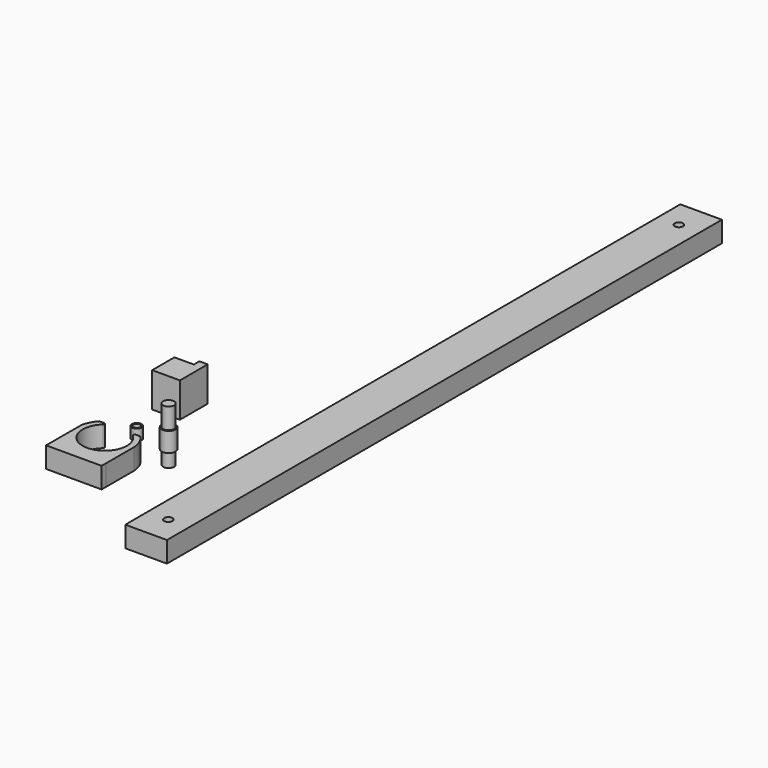
from build123d import *

# Parameters (mm, degrees)
F0_R      = 3.5
F0_R_2    = 2.5
F1_DEPTH  = 8
F0_R_3    = 4
F2_DEPTH  = 10
F0_R_4    = 5
F3_DEPTH  = 14
F4_R      = 4
F5_DEPTH  = 15
F0_W      = 30
F0_H      = 500
F6_DEPTH  = 15
F7_D      = 6
F8_DEPTH  = 25
F10_D     = 5
F10_DEPTH = 15
F10_TIP   = 1.5021515476
F11_DEPTH = 15


with BuildPart() as f1:
    # F0 (on Top) → F1 (new body)
    with BuildSketch(Plane.XY):
        with Locations((-30.9318657964, 11.9939884171)):
            Circle(F0_R)
        with Locations((-30.9318657964, 11.9939884171)):
            Circle(F0_R_2, mode=Mode.SUBTRACT)
    extrude(amount=F1_DEPTH)


with BuildPart() as f2:
    # F0 (on Top) → F2 (new body)
    with BuildSketch(Plane.XY):
        with Locations((-8.900186047, 13.1039824337)):
            Circle(F0_R_3)
    extrude(amount=-F2_DEPTH)

    # F0 (on Top) → F3 (join)
    with BuildSketch(Plane.XY):
        with Locations((-8.900186047, 13.1039824337)):
            Circle(F0_R_4)
        with Locations((-8.900186047, 13.1039824337)):
            Circle(F0_R_3, mode=Mode.SUBTRACT)
        with Locations((-8.900186047, 13.1039824337)):
            Circle(F0_R_3)
    extrude(amount=F3_DEPTH)

    # F4 (on face) → F5 (join)
    with BuildSketch(Plane.XY.offset(14)):
        with Locations((-8.900186047, 13.1039824337)):
            Circle(F4_R)
    extrude(amount=F5_DEPTH)


with BuildPart() as f6:
    # F0 (on Top) → F6 (new body)
    with BuildSketch(Plane.XY):
        with Locations((62.6677641273, 153.3853390813)):
            Rectangle(F0_W, F0_H)
    extrude(amount=F6_DEPTH)

    # F7 (through all)
    with Locations(Plane(origin=(0, 0, 0), x_dir=(1, 0, 0), z_dir=(0, 0, -1))):
        with Locations((62.6677641273, -383.3853390813), (62.6677641273, 76.6146609187)):
            Hole(F7_D / 2)


with BuildPart() as f8:
    # F0 (on Top) → F8 (new body)
    with BuildSketch(Plane.XY):
        Polygon((-46.1693040282, 64.8944717646), (-46.1693040282, 44.8944717646), (-26.1693040282, 44.8944717646), (-26.1693040282, 69.8944717646), (-32.1693040282, 69.8944717646), (-32.1693040282, 64.8944717646), align=None)
    extrude(amount=F8_DEPTH)

    # F10
    with Locations(Plane(origin=(-46.1693040282, 0, 0), x_dir=(0, -1, 0), z_dir=(-1, 0, 0))):
        with Locations((-54.8944717646, 12.5)):
            Hole(F10_D / 2, depth=F10_DEPTH)
            with Locations((0, 0, -(F10_DEPTH + F10_TIP / 2))):  # 118° drill point
                Cone(0, F10_D / 2, F10_TIP, mode=Mode.SUBTRACT)


with BuildPart() as f11:
    # F0 (on Top) → F11 (new body)
    with BuildSketch(Plane.XY):
        with BuildLine():
            ThreePointArc((-16.9560693478, -9.0613515281), (-27.6460252004, -36.9661759228), (-38.335981053, -9.0613515281))
            ThreePointArc((-38.335981053, -9.0613515281), (-38.0702800973, -7.9595651328), (-39.0041032938, -7.3173000034))
            Line((-39.0041032938, -7.3173000034), (-42.5224557581, -7.3173000034))
            ThreePointArc((-42.5224557581, -7.3173000034), (-45.6922677928, -11.9144839099), (-47.4815241961, -17.2041313204))
            Line((-47.4815241961, -17.2041313204), (-47.5590697005, -42.204011054))
            Line((-47.5590697005, -42.204011054), (-47.5590697005, -48.9661759228))
            Line((-47.5590697005, -48.9661759228), (-7.5590697005, -48.9661759228))
            Line((-7.5590697005, -48.9661759228), (-7.5590697005, -45.0931087413))
            Line((-7.5590697005, -45.0931087413), (-7.4811638343, -19.9770520248))
            ThreePointArc((-7.4811638343, -19.9770520248), (-9.0170057621, -13.1841688059), (-12.7695946427, -7.3173000034))
            Line((-12.7695946427, -7.3173000034), (-16.287947107, -7.3173000034))
            ThreePointArc((-16.287947107, -7.3173000034), (-17.2217703035, -7.9595651328), (-16.9560693478, -9.0613515281))
        make_face()
    extrude(amount=F11_DEPTH)


solid = Compound([f1.part, f2.part, f6.part, f8.part, f11.part])
